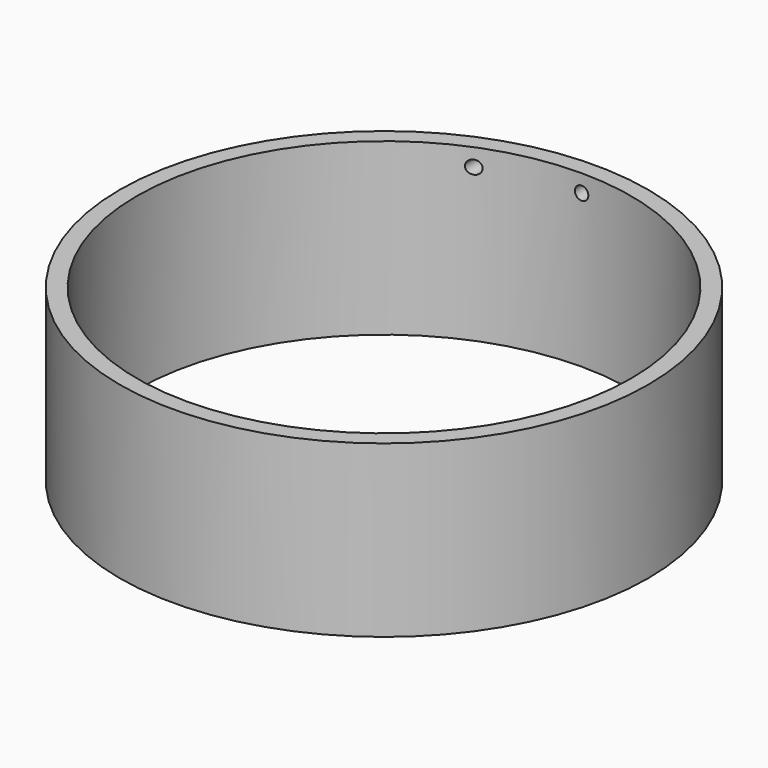
from build123d import *

# Parameters (mm, degrees)
F0_R     = 39.37
F0_R_2   = 36.83
F1_DEPTH = 25.4
F2_R     = 1
F3_DEPTH = 39.371


with BuildPart() as f1:
    # F0 (on Top) → F1 (new body)
    with BuildSketch(Plane.XY):
        Circle(F0_R)
        Circle(F0_R_2, mode=Mode.SUBTRACT)
    extrude(amount=F1_DEPTH)

    # F2 (on Front) → F3 (cut, through all)
    with BuildSketch(Plane.XZ):
        with Locations((-13.888924, 22.773662)):
            Circle(F2_R)
        with Locations((0, 22.773662)):
            Circle(F2_R)
    extrude(amount=-F3_DEPTH, mode=Mode.SUBTRACT)


solid = f1.part
